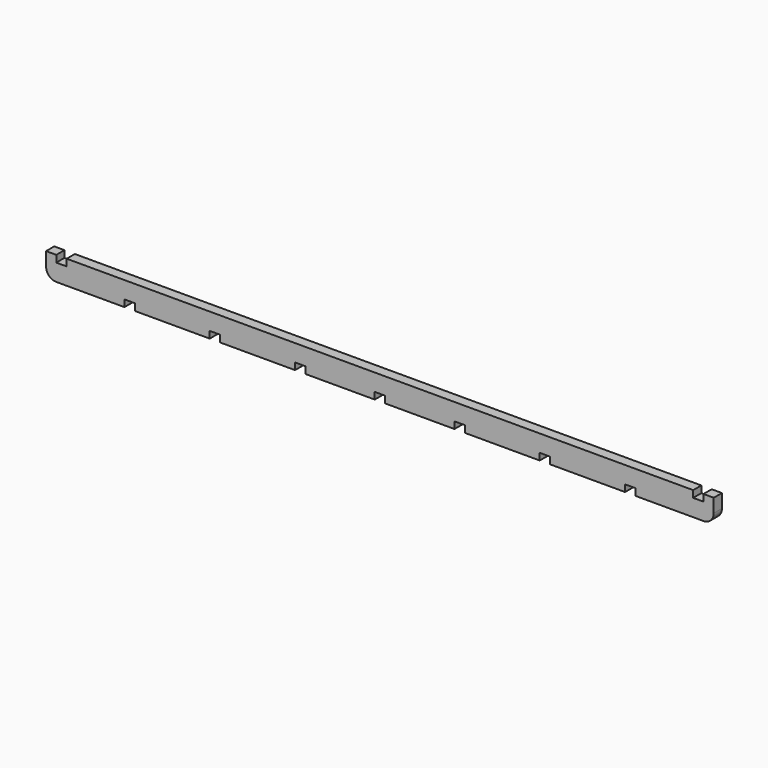
from build123d import *

# Parameters (mm, degrees)
F1_DEPTH = 3


with BuildPart() as f1:
    # F0 (on Front) → F1 (new body)
    with BuildSketch(Plane.XZ):
        with BuildLine():
            Line((-71.96, 2), (-71.96, 0))
            Line((-71.96, 0), (-49.96, 0))
            Line((-49.96, 0), (-49.96, 2))
            Line((-49.96, 2), (-46.92, 2))
            Line((-46.92, 2), (-46.92, 0))
            Line((-46.92, 0), (-24.92, 0))
            Line((-24.92, 0), (-24.92, 2))
            Line((-24.92, 2), (-21.88, 2))
            Line((-21.88, 2), (-21.88, 0))
            Line((-21.88, 0), (-1.52, 0))
            Line((-1.52, 0), (-1.52, 2))
            Line((-1.52, 2), (1.52, 2))
            Line((1.52, 2), (1.52, 0))
            Line((1.52, 0), (21.88, 0))
            Line((21.88, 0), (21.88, 2))
            Line((21.88, 2), (24.92, 2))
            Line((24.92, 2), (24.92, 0))
            Line((24.92, 0), (46.92, 0))
            Line((46.92, 0), (46.92, 2))
            Line((46.92, 2), (49.96, 2))
            Line((49.96, 2), (49.96, 0))
            Line((49.96, 0), (71.96, 0))
            Line((71.96, 0), (71.96, 2))
            Line((71.96, 2), (75, 2))
            Line((75, 2), (75, 0))
            Line((75, 0), (95, 0))
            ThreePointArc((95, 0), (97.12132, 0.87868), (98, 3))
            Line((98, 3), (98, 7))
            Line((98, 7), (95, 7))
            Line((95, 7), (95, 5))
            Line((95, 5), (91.96, 5))
            Line((91.96, 5), (91.96, 7))
            Line((91.96, 7), (-91.96, 7))
            Line((-91.96, 7), (-91.96, 5))
            Line((-91.96, 5), (-95, 5))
            Line((-95, 5), (-95, 7))
            Line((-95, 7), (-98, 7))
            Line((-98, 7), (-98, 3))
            ThreePointArc((-98, 3), (-97.12132, 0.87868), (-95, 0))
            Line((-95, 0), (-75, 0))
            Line((-75, 0), (-75, 2))
            Line((-75, 2), (-71.96, 2))
        make_face()
    extrude(amount=F1_DEPTH)


solid = f1.part
